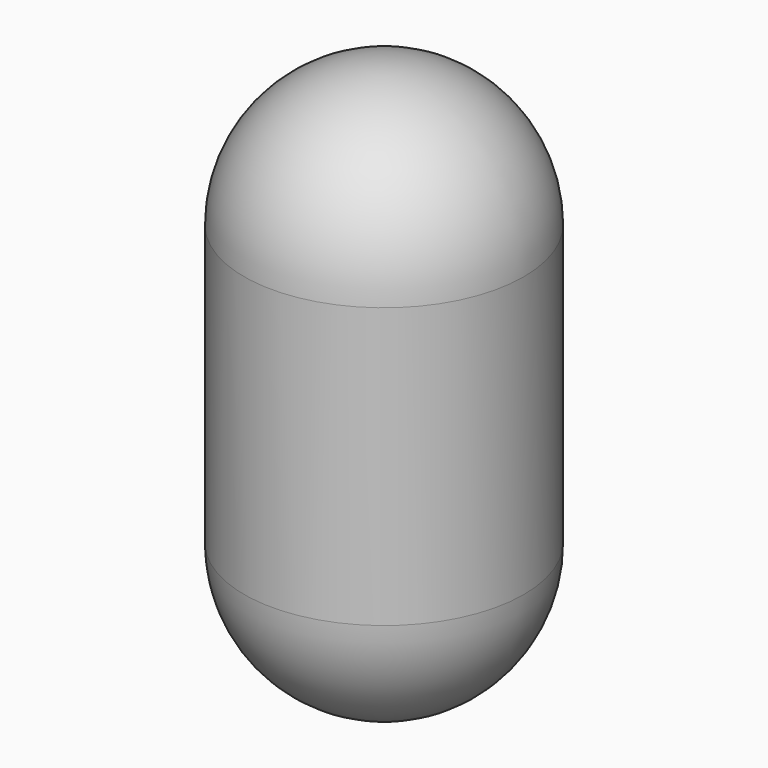
from build123d import *

# Parameters (mm, degrees)
CYLINDER003_R     = 0.5
CYLINDER003_DEPTH = 1


with BuildPart() as cylinder003:
    # Cylinder003 → Cylinder003 (new body)
    with BuildSketch(Plane.XY):
        Circle(CYLINDER003_R)
    extrude(amount=CYLINDER003_DEPTH)


with BuildPart() as fusion:
    # Sphere → Sphere (revolve)
    with BuildSketch(Plane.XZ):
        with BuildLine():
            ThreePointArc((0, -0.5), (0.5, 0), (0, 0.5))
            Line((0, 0.5), (0, -0.5))
        make_face()
    revolve(axis=Axis((0, 0, 0), (0, 0, 1)))

    # Fusion: union Cylinder003
    add(cylinder003.part)


with BuildPart() as capsule:
    # Sphere001 → Sphere001 (revolve)
    with BuildSketch(Plane(origin=(0, 0, 1), x_dir=(1, 0, 0), z_dir=(0, -1, 0))):
        with BuildLine():
            ThreePointArc((0, -0.5), (0.5, 0), (0, 0.5))
            Line((0, 0.5), (0, -0.5))
        make_face()
    revolve(axis=Axis((0, 0, 1), (0, 0, 1)))

    # Fusion001: union Fusion
    add(fusion.part)


solid = capsule.part
